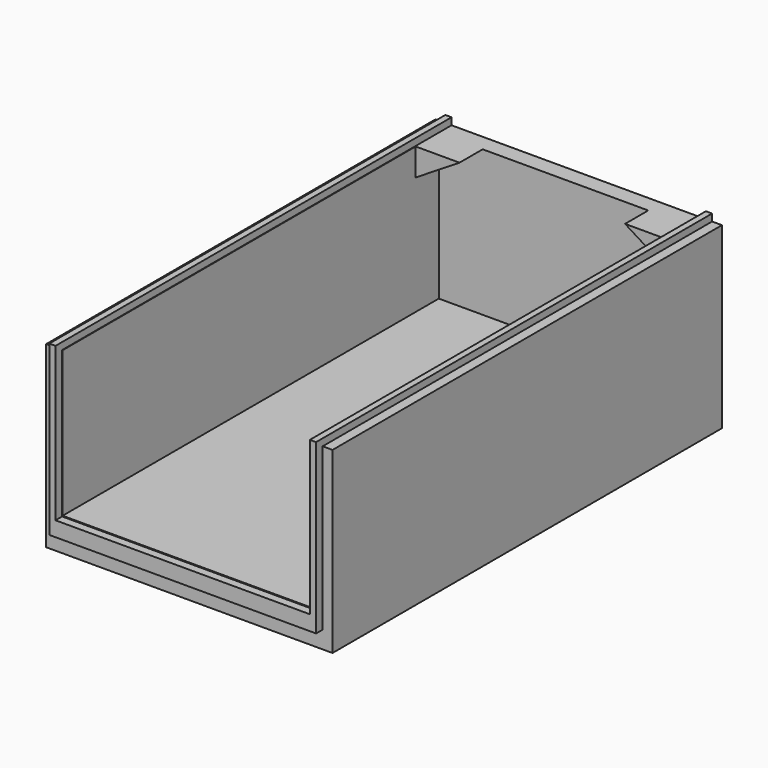
from build123d import *

# Parameters (mm, degrees)
SKETCH_W     = 34.6
SKETCH_H     = 58.8
PAD_DEPTH    = 4
PAD001_DEPTH = 17.6
PAD003_DEPTH = 59.8
PAD004_DEPTH = 3.5
POCKET_DEPTH = 10


with BuildPart() as part:
    # Sketch → Pad (new body)
    with BuildSketch(Plane.XY.offset(-2)):
        Rectangle(SKETCH_W, SKETCH_H)
    extrude(amount=PAD_DEPTH)

    # Sketch001 → Pad001 (join)
    with BuildSketch(Plane.XY.offset(2)):
        Polygon((-15.3, -29.4), (-15.3, 27.4), (15.3, 27.4), (15.3, -29.4), (17.3, -29.4), (17.3, 29.4), (-17.3, 29.4), (-17.3, -29.4), align=None)
    extrude(amount=PAD001_DEPTH)

    # Sketch003 → Pad003 (join)
    with BuildSketch(Plane.XZ.offset(30.4)):
        Polygon((-15.3625, 20.45), (-16.1125, 20.45), (-16.1125, 0.1), (16.1125, 0.1), (16.1125, 20.45), (15.3625, 20.45), (15.3625, 1.9), (-15.3625, 1.9), align=None)
    extrude(amount=-PAD003_DEPTH)

    # Sketch004 → Pad004 (join)
    with BuildSketch(Plane.XZ.offset(-27.4)):
        Polygon((-15.3, 19.6), (-15.3, 16.3), (-10, 19.6), align=None)
        Polygon((15.3, 19.6), (15.3, 16.3), (10, 19.6), align=None)
    extrude(amount=PAD004_DEPTH)

    # Sketch005 → Pocket (cut, symmetric)
    with BuildSketch(Plane.YZ):
        Polygon((20, 0), (20, -2), (10, -2), align=None)
    extrude(amount=POCKET_DEPTH, both=True, mode=Mode.SUBTRACT)


solid = part.part
